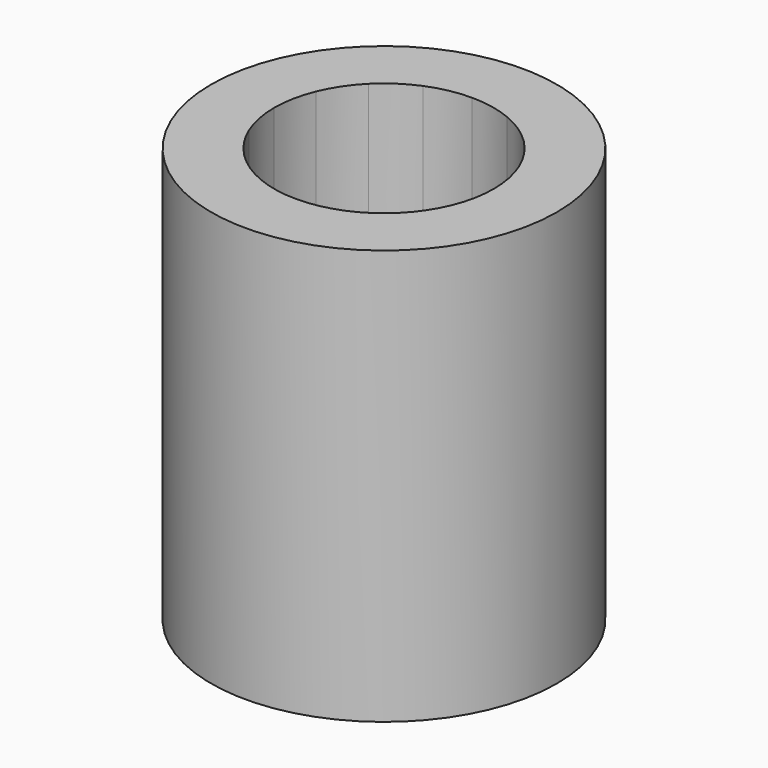
from build123d import *

# Parameters (mm, degrees)
F0_R     = 3.97
F1_DEPTH = 3
F2_DEPTH = 10
F3_DEPTH = 15
F4_DEPTH = 20
F5_START = 15
F5_DEPTH = 5
F6_DEPTH = 30
F0_R_2   = 12.5
F7_DEPTH = 30


with BuildPart() as f1:
    # F0 (on Top) → F1 (new body)
    with BuildSketch(Plane.XY):
        with BuildLine():
            ThreePointArc((5.1333056525, -2.1262848211), (5.4494882142, -1.0839706017), (5.55625, 0))
            ThreePointArc((5.55625, 0), (5.4494882142, 1.0839706017), (5.1333056525, 2.1262848211))
            ThreePointArc((5.1333056525, 2.1262848211), (4.6198530334, 3.0868871072), (3.928862053, 3.928862053))
            ThreePointArc((3.928862053, 3.928862053), (3.0868871072, 4.6198530334), (2.1262848211, 5.1333056525))
            ThreePointArc((2.1262848211, 5.1333056525), (1.0839706017, 5.4494882142), (0, 5.55625))
            ThreePointArc((0, 5.55625), (-1.0839706017, 5.4494882142), (-2.1262848211, 5.1333056525))
            ThreePointArc((-2.1262848211, 5.1333056525), (-3.0868871072, 4.6198530334), (-3.928862053, 3.928862053))
            ThreePointArc((-3.928862053, 3.928862053), (-4.6198530334, 3.0868871072), (-5.1333056525, 2.1262848211))
            ThreePointArc((-5.1333056525, 2.1262848211), (-5.4494882142, 1.0839706017), (-5.55625, 0))
            ThreePointArc((-5.55625, 0), (-5.4494882142, -1.0839706017), (-5.1333056525, -2.1262848211))
            ThreePointArc((-5.1333056525, -2.1262848211), (-4.6198530334, -3.0868871072), (-3.928862053, -3.928862053))
            ThreePointArc((-3.928862053, -3.928862053), (-3.0868871072, -4.6198530334), (-2.1262848211, -5.1333056525))
            ThreePointArc((-2.1262848211, -5.1333056525), (-1.0839706017, -5.4494882142), (0, -5.55625))
            ThreePointArc((0, -5.55625), (1.0839706017, -5.4494882142), (2.1262848211, -5.1333056525))
            ThreePointArc((2.1262848211, -5.1333056525), (3.0868871072, -4.6198530334), (3.928862053, -3.928862053))
            ThreePointArc((3.928862053, -3.928862053), (4.6198530334, -3.0868871072), (5.1333056525, -2.1262848211))
        make_face()
        Circle(F0_R, mode=Mode.SUBTRACT)
    extrude(amount=F1_DEPTH)

    # F0 (on Top) → F2 (join)
    with BuildSketch(Plane.XY):
        with BuildLine():
            Line((5.1333056525, 2.1262848211), (5.5432771951, 2.2961005942))
            ThreePointArc((5.5432771951, 2.2961005942), (4.9888176738, 3.3334213981), (4.2426406871, 4.2426406871))
            Line((4.2426406871, 4.2426406871), (3.928862053, 3.928862053))
            ThreePointArc((3.928862053, 3.928862053), (4.6198530334, 3.0868871072), (5.1333056525, 2.1262848211))
        make_face()
        with BuildLine():
            Line((5.55625, 0), (6, 0))
            ThreePointArc((6, 0), (5.8847116824, 1.1705419321), (5.5432771951, 2.2961005942))
            Line((5.5432771951, 2.2961005942), (5.1333056525, 2.1262848211))
            ThreePointArc((5.1333056525, 2.1262848211), (5.4494882142, 1.0839706017), (5.55625, 0))
        make_face()
        with BuildLine():
            ThreePointArc((5.5432771951, -2.2961005942), (5.8847116824, -1.1705419321), (6, 0))
            Line((6, 0), (5.55625, 0))
            ThreePointArc((5.55625, 0), (5.4494882142, -1.0839706017), (5.1333056525, -2.1262848211))
            Line((5.1333056525, -2.1262848211), (5.5432771951, -2.2961005942))
        make_face()
        with BuildLine():
            ThreePointArc((4.2426406871, -4.2426406871), (4.9888176738, -3.3334213981), (5.5432771951, -2.2961005942))
            Line((5.5432771951, -2.2961005942), (5.1333056525, -2.1262848211))
            ThreePointArc((5.1333056525, -2.1262848211), (4.6198530334, -3.0868871072), (3.928862053, -3.928862053))
            Line((3.928862053, -3.928862053), (4.2426406871, -4.2426406871))
        make_face()
        with BuildLine():
            ThreePointArc((2.2961005942, -5.5432771951), (3.3334213981, -4.9888176738), (4.2426406871, -4.2426406871))
            Line((4.2426406871, -4.2426406871), (3.928862053, -3.928862053))
            ThreePointArc((3.928862053, -3.928862053), (3.0868871072, -4.6198530334), (2.1262848211, -5.1333056525))
            Line((2.1262848211, -5.1333056525), (2.2961005942, -5.5432771951))
        make_face()
        with BuildLine():
            ThreePointArc((0, -6), (1.1705419321, -5.8847116824), (2.2961005942, -5.5432771951))
            Line((2.2961005942, -5.5432771951), (2.1262848211, -5.1333056525))
            ThreePointArc((2.1262848211, -5.1333056525), (1.0839706017, -5.4494882142), (0, -5.55625))
            Line((0, -5.55625), (0, -6))
        make_face()
        with BuildLine():
            ThreePointArc((-2.2961005942, -5.5432771951), (-1.1705419321, -5.8847116824), (0, -6))
            Line((0, -6), (0, -5.55625))
            ThreePointArc((0, -5.55625), (-1.0839706017, -5.4494882142), (-2.1262848211, -5.1333056525))
            Line((-2.1262848211, -5.1333056525), (-2.2961005942, -5.5432771951))
        make_face()
        with BuildLine():
            ThreePointArc((-4.2426406871, -4.2426406871), (-3.3334213981, -4.9888176738), (-2.2961005942, -5.5432771951))
            Line((-2.2961005942, -5.5432771951), (-2.1262848211, -5.1333056525))
            ThreePointArc((-2.1262848211, -5.1333056525), (-3.0868871072, -4.6198530334), (-3.928862053, -3.928862053))
            Line((-3.928862053, -3.928862053), (-4.2426406871, -4.2426406871))
        make_face()
        with BuildLine():
            ThreePointArc((-5.5432771951, -2.2961005942), (-4.9888176738, -3.3334213981), (-4.2426406871, -4.2426406871))
            Line((-4.2426406871, -4.2426406871), (-3.928862053, -3.928862053))
            ThreePointArc((-3.928862053, -3.928862053), (-4.6198530334, -3.0868871072), (-5.1333056525, -2.1262848211))
            Line((-5.1333056525, -2.1262848211), (-5.5432771951, -2.2961005942))
        make_face()
        with BuildLine():
            ThreePointArc((-6, 0), (-5.8847116824, -1.1705419321), (-5.5432771951, -2.2961005942))
            Line((-5.5432771951, -2.2961005942), (-5.1333056525, -2.1262848211))
            ThreePointArc((-5.1333056525, -2.1262848211), (-5.4494882142, -1.0839706017), (-5.55625, 0))
            Line((-5.55625, 0), (-6, 0))
        make_face()
        with BuildLine():
            Line((3.928862053, 3.928862053), (4.2426406871, 4.2426406871))
            ThreePointArc((4.2426406871, 4.2426406871), (3.3334213981, 4.9888176738), (2.2961005942, 5.5432771951))
            Line((2.2961005942, 5.5432771951), (2.1262848211, 5.1333056525))
            ThreePointArc((2.1262848211, 5.1333056525), (3.0868871072, 4.6198530334), (3.928862053, 3.928862053))
        make_face()
        with BuildLine():
            Line((2.1262848211, 5.1333056525), (2.2961005942, 5.5432771951))
            ThreePointArc((2.2961005942, 5.5432771951), (1.1705419321, 5.8847116824), (0, 6))
            Line((0, 6), (0, 5.55625))
            ThreePointArc((0, 5.55625), (1.0839706017, 5.4494882142), (2.1262848211, 5.1333056525))
        make_face()
        with BuildLine():
            Line((0, 5.55625), (0, 6))
            ThreePointArc((0, 6), (-1.1705419321, 5.8847116824), (-2.2961005942, 5.5432771951))
            Line((-2.2961005942, 5.5432771951), (-2.1262848211, 5.1333056525))
            ThreePointArc((-2.1262848211, 5.1333056525), (-1.0839706017, 5.4494882142), (0, 5.55625))
        make_face()
        with BuildLine():
            Line((-2.1262848211, 5.1333056525), (-2.2961005942, 5.5432771951))
            ThreePointArc((-2.2961005942, 5.5432771951), (-3.3334213981, 4.9888176738), (-4.2426406871, 4.2426406871))
            Line((-4.2426406871, 4.2426406871), (-3.928862053, 3.928862053))
            ThreePointArc((-3.928862053, 3.928862053), (-3.0868871072, 4.6198530334), (-2.1262848211, 5.1333056525))
        make_face()
        with BuildLine():
            Line((-3.928862053, 3.928862053), (-4.2426406871, 4.2426406871))
            ThreePointArc((-4.2426406871, 4.2426406871), (-4.9888176738, 3.3334213981), (-5.5432771951, 2.2961005942))
            Line((-5.5432771951, 2.2961005942), (-5.1333056525, 2.1262848211))
            ThreePointArc((-5.1333056525, 2.1262848211), (-4.6198530334, 3.0868871072), (-3.928862053, 3.928862053))
        make_face()
        with BuildLine():
            Line((-5.1333056525, 2.1262848211), (-5.5432771951, 2.2961005942))
            ThreePointArc((-5.5432771951, 2.2961005942), (-5.8847116824, 1.1705419321), (-6, 0))
            Line((-6, 0), (-5.55625, 0))
            ThreePointArc((-5.55625, 0), (-5.4494882142, 1.0839706017), (-5.1333056525, 2.1262848211))
        make_face()
        with BuildLine():
            Line((0, 6), (0, 6.35))
            ThreePointArc((0, 6.35), (-1.2388235448, 6.2279865306), (-2.4300397955, 5.8666350314))
            Line((-2.4300397955, 5.8666350314), (-2.2961005942, 5.5432771951))
            ThreePointArc((-2.2961005942, 5.5432771951), (-1.1705419321, 5.8847116824), (0, 6))
        make_face()
        with BuildLine():
            Line((-2.2961005942, 5.5432771951), (-2.4300397955, 5.8666350314))
            ThreePointArc((-2.4300397955, 5.8666350314), (-3.5278709797, 5.2798320381), (-4.4901280605, 4.4901280605))
            Line((-4.4901280605, 4.4901280605), (-4.2426406871, 4.2426406871))
            ThreePointArc((-4.2426406871, 4.2426406871), (-3.3334213981, 4.9888176738), (-2.2961005942, 5.5432771951))
        make_face()
        with BuildLine():
            Line((-4.2426406871, 4.2426406871), (-4.4901280605, 4.4901280605))
            ThreePointArc((-4.4901280605, 4.4901280605), (-5.2798320381, 3.5278709797), (-5.8666350314, 2.4300397955))
            Line((-5.8666350314, 2.4300397955), (-5.5432771951, 2.2961005942))
            ThreePointArc((-5.5432771951, 2.2961005942), (-4.9888176738, 3.3334213981), (-4.2426406871, 4.2426406871))
        make_face()
        with BuildLine():
            Line((2.2961005942, 5.5432771951), (2.4300397955, 5.8666350314))
            ThreePointArc((2.4300397955, 5.8666350314), (1.2388235448, 6.2279865306), (0, 6.35))
            Line((0, 6.35), (0, 6))
            ThreePointArc((0, 6), (1.1705419321, 5.8847116824), (2.2961005942, 5.5432771951))
        make_face()
        with BuildLine():
            Line((4.2426406871, 4.2426406871), (4.4901280605, 4.4901280605))
            ThreePointArc((4.4901280605, 4.4901280605), (3.5278709797, 5.2798320381), (2.4300397955, 5.8666350314))
            Line((2.4300397955, 5.8666350314), (2.2961005942, 5.5432771951))
            ThreePointArc((2.2961005942, 5.5432771951), (3.3334213981, 4.9888176738), (4.2426406871, 4.2426406871))
        make_face()
        with BuildLine():
            Line((5.5432771951, 2.2961005942), (5.8666350314, 2.4300397955))
            ThreePointArc((5.8666350314, 2.4300397955), (5.2798320381, 3.5278709797), (4.4901280605, 4.4901280605))
            Line((4.4901280605, 4.4901280605), (4.2426406871, 4.2426406871))
            ThreePointArc((4.2426406871, 4.2426406871), (4.9888176738, 3.3334213981), (5.5432771951, 2.2961005942))
        make_face()
        with BuildLine():
            Line((6, 0), (6.35, 0))
            ThreePointArc((6.35, 0), (6.2279865306, 1.2388235448), (5.8666350314, 2.4300397955))
            Line((5.8666350314, 2.4300397955), (5.5432771951, 2.2961005942))
            ThreePointArc((5.5432771951, 2.2961005942), (5.8847116824, 1.1705419321), (6, 0))
        make_face()
        with BuildLine():
            ThreePointArc((5.8666350314, -2.4300397955), (6.2279865306, -1.2388235448), (6.35, 0))
            Line((6.35, 0), (6, 0))
            ThreePointArc((6, 0), (5.8847116824, -1.1705419321), (5.5432771951, -2.2961005942))
            Line((5.5432771951, -2.2961005942), (5.8666350314, -2.4300397955))
        make_face()
        with BuildLine():
            ThreePointArc((4.4901280605, -4.4901280605), (5.2798320381, -3.5278709797), (5.8666350314, -2.4300397955))
            Line((5.8666350314, -2.4300397955), (5.5432771951, -2.2961005942))
            ThreePointArc((5.5432771951, -2.2961005942), (4.9888176738, -3.3334213981), (4.2426406871, -4.2426406871))
            Line((4.2426406871, -4.2426406871), (4.4901280605, -4.4901280605))
        make_face()
        with BuildLine():
            ThreePointArc((2.4300397955, -5.8666350314), (3.5278709797, -5.2798320381), (4.4901280605, -4.4901280605))
            Line((4.4901280605, -4.4901280605), (4.2426406871, -4.2426406871))
            ThreePointArc((4.2426406871, -4.2426406871), (3.3334213981, -4.9888176738), (2.2961005942, -5.5432771951))
            Line((2.2961005942, -5.5432771951), (2.4300397955, -5.8666350314))
        make_face()
        with BuildLine():
            ThreePointArc((0, -6.35), (1.2388235448, -6.2279865306), (2.4300397955, -5.8666350314))
            Line((2.4300397955, -5.8666350314), (2.2961005942, -5.5432771951))
            ThreePointArc((2.2961005942, -5.5432771951), (1.1705419321, -5.8847116824), (0, -6))
            Line((0, -6), (0, -6.35))
        make_face()
        with BuildLine():
            ThreePointArc((-2.4300397955, -5.8666350314), (-1.2388235448, -6.2279865306), (0, -6.35))
            Line((0, -6.35), (0, -6))
            ThreePointArc((0, -6), (-1.1705419321, -5.8847116824), (-2.2961005942, -5.5432771951))
            Line((-2.2961005942, -5.5432771951), (-2.4300397955, -5.8666350314))
        make_face()
        with BuildLine():
            ThreePointArc((-4.4901280605, -4.4901280605), (-3.5278709797, -5.2798320381), (-2.4300397955, -5.8666350314))
            Line((-2.4300397955, -5.8666350314), (-2.2961005942, -5.5432771951))
            ThreePointArc((-2.2961005942, -5.5432771951), (-3.3334213981, -4.9888176738), (-4.2426406871, -4.2426406871))
            Line((-4.2426406871, -4.2426406871), (-4.4901280605, -4.4901280605))
        make_face()
        with BuildLine():
            ThreePointArc((-5.8666350314, -2.4300397955), (-5.2798320381, -3.5278709797), (-4.4901280605, -4.4901280605))
            Line((-4.4901280605, -4.4901280605), (-4.2426406871, -4.2426406871))
            ThreePointArc((-4.2426406871, -4.2426406871), (-4.9888176738, -3.3334213981), (-5.5432771951, -2.2961005942))
            Line((-5.5432771951, -2.2961005942), (-5.8666350314, -2.4300397955))
        make_face()
        with BuildLine():
            ThreePointArc((-6.35, 0), (-6.2279865306, -1.2388235448), (-5.8666350314, -2.4300397955))
            Line((-5.8666350314, -2.4300397955), (-5.5432771951, -2.2961005942))
            ThreePointArc((-5.5432771951, -2.2961005942), (-5.8847116824, -1.1705419321), (-6, 0))
            Line((-6, 0), (-6.35, 0))
        make_face()
        with BuildLine():
            Line((-5.5432771951, 2.2961005942), (-5.8666350314, 2.4300397955))
            ThreePointArc((-5.8666350314, 2.4300397955), (-6.2279865306, 1.2388235448), (-6.35, 0))
            Line((-6.35, 0), (-6, 0))
            ThreePointArc((-6, 0), (-5.8847116824, 1.1705419321), (-5.5432771951, 2.2961005942))
        make_face()
    extrude(amount=F2_DEPTH)

    # F0 (on Top) → F3 (join)
    with BuildSketch(Plane.XY):
        with BuildLine():
            Line((2.2961005942, 5.5432771951), (2.4300397955, 5.8666350314))
            ThreePointArc((2.4300397955, 5.8666350314), (1.2388235448, 6.2279865306), (0, 6.35))
            Line((0, 6.35), (0, 6))
            ThreePointArc((0, 6), (1.1705419321, 5.8847116824), (2.2961005942, 5.5432771951))
        make_face()
        with BuildLine():
            Line((5.5432771951, 2.2961005942), (5.8666350314, 2.4300397955))
            ThreePointArc((5.8666350314, 2.4300397955), (5.2798320381, 3.5278709797), (4.4901280605, 4.4901280605))
            Line((4.4901280605, 4.4901280605), (4.2426406871, 4.2426406871))
            ThreePointArc((4.2426406871, 4.2426406871), (4.9888176738, 3.3334213981), (5.5432771951, 2.2961005942))
        make_face()
        with BuildLine():
            ThreePointArc((5.8666350314, -2.4300397955), (6.2279865306, -1.2388235448), (6.35, 0))
            Line((6.35, 0), (6, 0))
            ThreePointArc((6, 0), (5.8847116824, -1.1705419321), (5.5432771951, -2.2961005942))
            Line((5.5432771951, -2.2961005942), (5.8666350314, -2.4300397955))
        make_face()
        with BuildLine():
            ThreePointArc((2.4300397955, -5.8666350314), (3.5278709797, -5.2798320381), (4.4901280605, -4.4901280605))
            Line((4.4901280605, -4.4901280605), (4.2426406871, -4.2426406871))
            ThreePointArc((4.2426406871, -4.2426406871), (3.3334213981, -4.9888176738), (2.2961005942, -5.5432771951))
            Line((2.2961005942, -5.5432771951), (2.4300397955, -5.8666350314))
        make_face()
        with BuildLine():
            ThreePointArc((-2.4300397955, -5.8666350314), (-1.2388235448, -6.2279865306), (0, -6.35))
            Line((0, -6.35), (0, -6))
            ThreePointArc((0, -6), (-1.1705419321, -5.8847116824), (-2.2961005942, -5.5432771951))
            Line((-2.2961005942, -5.5432771951), (-2.4300397955, -5.8666350314))
        make_face()
        with BuildLine():
            ThreePointArc((-5.8666350314, -2.4300397955), (-5.2798320381, -3.5278709797), (-4.4901280605, -4.4901280605))
            Line((-4.4901280605, -4.4901280605), (-4.2426406871, -4.2426406871))
            ThreePointArc((-4.2426406871, -4.2426406871), (-4.9888176738, -3.3334213981), (-5.5432771951, -2.2961005942))
            Line((-5.5432771951, -2.2961005942), (-5.8666350314, -2.4300397955))
        make_face()
        with BuildLine():
            Line((-5.5432771951, 2.2961005942), (-5.8666350314, 2.4300397955))
            ThreePointArc((-5.8666350314, 2.4300397955), (-6.2279865306, 1.2388235448), (-6.35, 0))
            Line((-6.35, 0), (-6, 0))
            ThreePointArc((-6, 0), (-5.8847116824, 1.1705419321), (-5.5432771951, 2.2961005942))
        make_face()
        with BuildLine():
            Line((-2.2961005942, 5.5432771951), (-2.4300397955, 5.8666350314))
            ThreePointArc((-2.4300397955, 5.8666350314), (-3.5278709797, 5.2798320381), (-4.4901280605, 4.4901280605))
            Line((-4.4901280605, 4.4901280605), (-4.2426406871, 4.2426406871))
            ThreePointArc((-4.2426406871, 4.2426406871), (-3.3334213981, 4.9888176738), (-2.2961005942, 5.5432771951))
        make_face()
    extrude(amount=F3_DEPTH)

    # F0 (on Top) → F4 (join)
    with BuildSketch(Plane.XY):
        with BuildLine():
            Line((2.4300397955, 5.8666350314), (3.0375497444, 7.3332937893))
            ThreePointArc((3.0375497444, 7.3332937893), (1.548529431, 7.7849831632), (0, 7.9375))
            Line((0, 7.9375), (0, 6.35))
            ThreePointArc((0, 6.35), (1.2388235448, 6.2279865306), (2.4300397955, 5.8666350314))
        make_face()
        with BuildLine():
            Line((5.8666350314, 2.4300397955), (7.3332937893, 3.0375497444))
            ThreePointArc((7.3332937893, 3.0375497444), (6.5997900477, 4.4098387246), (5.6126600757, 5.6126600757))
            Line((5.6126600757, 5.6126600757), (4.4901280605, 4.4901280605))
            ThreePointArc((4.4901280605, 4.4901280605), (5.2798320381, 3.5278709797), (5.8666350314, 2.4300397955))
        make_face()
        with BuildLine():
            ThreePointArc((7.3332937893, -3.0375497444), (7.7849831632, -1.548529431), (7.9375, 0))
            Line((7.9375, 0), (6.35, 0))
            ThreePointArc((6.35, 0), (6.2279865306, -1.2388235448), (5.8666350314, -2.4300397955))
            Line((5.8666350314, -2.4300397955), (7.3332937893, -3.0375497444))
        make_face()
        with BuildLine():
            ThreePointArc((3.0375497444, -7.3332937893), (4.4098387246, -6.5997900477), (5.6126600757, -5.6126600757))
            Line((5.6126600757, -5.6126600757), (4.4901280605, -4.4901280605))
            ThreePointArc((4.4901280605, -4.4901280605), (3.5278709797, -5.2798320381), (2.4300397955, -5.8666350314))
            Line((2.4300397955, -5.8666350314), (3.0375497444, -7.3332937893))
        make_face()
        with BuildLine():
            ThreePointArc((-3.0375497444, -7.3332937893), (-1.548529431, -7.7849831632), (0, -7.9375))
            Line((0, -7.9375), (0, -6.35))
            ThreePointArc((0, -6.35), (-1.2388235448, -6.2279865306), (-2.4300397955, -5.8666350314))
            Line((-2.4300397955, -5.8666350314), (-3.0375497444, -7.3332937893))
        make_face()
        with BuildLine():
            ThreePointArc((-7.3332937893, -3.0375497444), (-6.5997900477, -4.4098387246), (-5.6126600757, -5.6126600757))
            Line((-5.6126600757, -5.6126600757), (-4.4901280605, -4.4901280605))
            ThreePointArc((-4.4901280605, -4.4901280605), (-5.2798320381, -3.5278709797), (-5.8666350314, -2.4300397955))
            Line((-5.8666350314, -2.4300397955), (-7.3332937893, -3.0375497444))
        make_face()
        with BuildLine():
            Line((-5.8666350314, 2.4300397955), (-7.3332937893, 3.0375497444))
            ThreePointArc((-7.3332937893, 3.0375497444), (-7.7849831632, 1.548529431), (-7.9375, 0))
            Line((-7.9375, 0), (-6.35, 0))
            ThreePointArc((-6.35, 0), (-6.2279865306, 1.2388235448), (-5.8666350314, 2.4300397955))
        make_face()
        with BuildLine():
            Line((-2.4300397955, 5.8666350314), (-3.0375497444, 7.3332937893))
            ThreePointArc((-3.0375497444, 7.3332937893), (-4.4098387246, 6.5997900477), (-5.6126600757, 5.6126600757))
            Line((-5.6126600757, 5.6126600757), (-4.4901280605, 4.4901280605))
            ThreePointArc((-4.4901280605, 4.4901280605), (-3.5278709797, 5.2798320381), (-2.4300397955, 5.8666350314))
        make_face()
    extrude(amount=F4_DEPTH)

    # F0 (on Top) → F5 (join)
    with BuildSketch(Plane.XY.offset(F5_START)):
        with BuildLine():
            Line((4.4901280605, 4.4901280605), (5.6126600757, 5.6126600757))
            ThreePointArc((5.6126600757, 5.6126600757), (4.4098387246, 6.5997900477), (3.0375497444, 7.3332937893))
            Line((3.0375497444, 7.3332937893), (2.4300397955, 5.8666350314))
            ThreePointArc((2.4300397955, 5.8666350314), (3.5278709797, 5.2798320381), (4.4901280605, 4.4901280605))
        make_face()
        with BuildLine():
            Line((6.35, 0), (7.9375, 0))
            ThreePointArc((7.9375, 0), (7.7849831632, 1.548529431), (7.3332937893, 3.0375497444))
            Line((7.3332937893, 3.0375497444), (5.8666350314, 2.4300397955))
            ThreePointArc((5.8666350314, 2.4300397955), (6.2279865306, 1.2388235448), (6.35, 0))
        make_face()
        with BuildLine():
            ThreePointArc((5.6126600757, -5.6126600757), (6.5997900477, -4.4098387246), (7.3332937893, -3.0375497444))
            Line((7.3332937893, -3.0375497444), (5.8666350314, -2.4300397955))
            ThreePointArc((5.8666350314, -2.4300397955), (5.2798320381, -3.5278709797), (4.4901280605, -4.4901280605))
            Line((4.4901280605, -4.4901280605), (5.6126600757, -5.6126600757))
        make_face()
        with BuildLine():
            ThreePointArc((0, -7.9375), (1.548529431, -7.7849831632), (3.0375497444, -7.3332937893))
            Line((3.0375497444, -7.3332937893), (2.4300397955, -5.8666350314))
            ThreePointArc((2.4300397955, -5.8666350314), (1.2388235448, -6.2279865306), (0, -6.35))
            Line((0, -6.35), (0, -7.9375))
        make_face()
        with BuildLine():
            ThreePointArc((-5.6126600757, -5.6126600757), (-4.4098387246, -6.5997900477), (-3.0375497444, -7.3332937893))
            Line((-3.0375497444, -7.3332937893), (-2.4300397955, -5.8666350314))
            ThreePointArc((-2.4300397955, -5.8666350314), (-3.5278709797, -5.2798320381), (-4.4901280605, -4.4901280605))
            Line((-4.4901280605, -4.4901280605), (-5.6126600757, -5.6126600757))
        make_face()
        with BuildLine():
            ThreePointArc((-7.9375, 0), (-7.7849831632, -1.548529431), (-7.3332937893, -3.0375497444))
            Line((-7.3332937893, -3.0375497444), (-5.8666350314, -2.4300397955))
            ThreePointArc((-5.8666350314, -2.4300397955), (-6.2279865306, -1.2388235448), (-6.35, 0))
            Line((-6.35, 0), (-7.9375, 0))
        make_face()
        with BuildLine():
            Line((-4.4901280605, 4.4901280605), (-5.6126600757, 5.6126600757))
            ThreePointArc((-5.6126600757, 5.6126600757), (-6.5997900477, 4.4098387246), (-7.3332937893, 3.0375497444))
            Line((-7.3332937893, 3.0375497444), (-5.8666350314, 2.4300397955))
            ThreePointArc((-5.8666350314, 2.4300397955), (-5.2798320381, 3.5278709797), (-4.4901280605, 4.4901280605))
        make_face()
        with BuildLine():
            Line((0, 6.35), (0, 7.9375))
            ThreePointArc((0, 7.9375), (-1.548529431, 7.7849831632), (-3.0375497444, 7.3332937893))
            Line((-3.0375497444, 7.3332937893), (-2.4300397955, 5.8666350314))
            ThreePointArc((-2.4300397955, 5.8666350314), (-1.2388235448, 6.2279865306), (0, 6.35))
        make_face()
    extrude(amount=F5_DEPTH)

    # F0 (on Top) → F6 (join)
    with BuildSketch(Plane.XY):
        with BuildLine():
            ThreePointArc((0, 7.9375), (1.548529431, 7.7849831632), (3.0375497444, 7.3332937893))
            Line((3.0375497444, 7.3332937893), (3.2528091751, 7.8529760263))
            ThreePointArc((3.2528091751, 7.8529760263), (1.6582677371, 8.3366748834), (0, 8.5))
            Line((0, 8.5), (0, 7.9375))
        make_face()
        with BuildLine():
            ThreePointArc((3.0375497444, 7.3332937893), (4.4098387246, 6.5997900477), (5.6126600757, 5.6126600757))
            Line((5.6126600757, 5.6126600757), (6.0104076401, 6.0104076401))
            ThreePointArc((6.0104076401, 6.0104076401), (4.7223469807, 7.0674917046), (3.2528091751, 7.8529760263))
            Line((3.2528091751, 7.8529760263), (3.0375497444, 7.3332937893))
        make_face()
        with BuildLine():
            ThreePointArc((5.6126600757, 5.6126600757), (6.5997900477, 4.4098387246), (7.3332937893, 3.0375497444))
            Line((7.3332937893, 3.0375497444), (7.8529760263, 3.2528091751))
            ThreePointArc((7.8529760263, 3.2528091751), (7.0674917046, 4.7223469807), (6.0104076401, 6.0104076401))
            Line((6.0104076401, 6.0104076401), (5.6126600757, 5.6126600757))
        make_face()
        with BuildLine():
            ThreePointArc((7.3332937893, 3.0375497444), (7.7849831632, 1.548529431), (7.9375, 0))
            Line((7.9375, 0), (8.5, 0))
            ThreePointArc((8.5, 0), (8.3366748834, 1.6582677371), (7.8529760263, 3.2528091751))
            Line((7.8529760263, 3.2528091751), (7.3332937893, 3.0375497444))
        make_face()
        with BuildLine():
            Line((8.5, 0), (7.9375, 0))
            ThreePointArc((7.9375, 0), (7.7849831632, -1.548529431), (7.3332937893, -3.0375497444))
            Line((7.3332937893, -3.0375497444), (7.8529760263, -3.2528091751))
            ThreePointArc((7.8529760263, -3.2528091751), (8.3366748834, -1.6582677371), (8.5, 0))
        make_face()
        with BuildLine():
            Line((7.8529760263, -3.2528091751), (7.3332937893, -3.0375497444))
            ThreePointArc((7.3332937893, -3.0375497444), (6.5997900477, -4.4098387246), (5.6126600757, -5.6126600757))
            Line((5.6126600757, -5.6126600757), (6.0104076401, -6.0104076401))
            ThreePointArc((6.0104076401, -6.0104076401), (7.0674917046, -4.7223469807), (7.8529760263, -3.2528091751))
        make_face()
        with BuildLine():
            Line((6.0104076401, -6.0104076401), (5.6126600757, -5.6126600757))
            ThreePointArc((5.6126600757, -5.6126600757), (4.4098387246, -6.5997900477), (3.0375497444, -7.3332937893))
            Line((3.0375497444, -7.3332937893), (3.2528091751, -7.8529760263))
            ThreePointArc((3.2528091751, -7.8529760263), (4.7223469807, -7.0674917046), (6.0104076401, -6.0104076401))
        make_face()
        with BuildLine():
            Line((3.2528091751, -7.8529760263), (3.0375497444, -7.3332937893))
            ThreePointArc((3.0375497444, -7.3332937893), (1.548529431, -7.7849831632), (0, -7.9375))
            Line((0, -7.9375), (0, -8.5))
            ThreePointArc((0, -8.5), (1.6582677371, -8.3366748834), (3.2528091751, -7.8529760263))
        make_face()
        with BuildLine():
            Line((0, -8.5), (0, -7.9375))
            ThreePointArc((0, -7.9375), (-1.548529431, -7.7849831632), (-3.0375497444, -7.3332937893))
            Line((-3.0375497444, -7.3332937893), (-3.2528091751, -7.8529760263))
            ThreePointArc((-3.2528091751, -7.8529760263), (-1.6582677371, -8.3366748834), (0, -8.5))
        make_face()
        with BuildLine():
            Line((-3.2528091751, -7.8529760263), (-3.0375497444, -7.3332937893))
            ThreePointArc((-3.0375497444, -7.3332937893), (-4.4098387246, -6.5997900477), (-5.6126600757, -5.6126600757))
            Line((-5.6126600757, -5.6126600757), (-6.0104076401, -6.0104076401))
            ThreePointArc((-6.0104076401, -6.0104076401), (-4.7223469807, -7.0674917046), (-3.2528091751, -7.8529760263))
        make_face()
        with BuildLine():
            Line((-6.0104076401, -6.0104076401), (-5.6126600757, -5.6126600757))
            ThreePointArc((-5.6126600757, -5.6126600757), (-6.5997900477, -4.4098387246), (-7.3332937893, -3.0375497444))
            Line((-7.3332937893, -3.0375497444), (-7.8529760263, -3.2528091751))
            ThreePointArc((-7.8529760263, -3.2528091751), (-7.0674917046, -4.7223469807), (-6.0104076401, -6.0104076401))
        make_face()
        with BuildLine():
            Line((-7.8529760263, -3.2528091751), (-7.3332937893, -3.0375497444))
            ThreePointArc((-7.3332937893, -3.0375497444), (-7.7849831632, -1.548529431), (-7.9375, 0))
            Line((-7.9375, 0), (-8.5, 0))
            ThreePointArc((-8.5, 0), (-8.3366748834, -1.6582677371), (-7.8529760263, -3.2528091751))
        make_face()
        with BuildLine():
            ThreePointArc((-7.9375, 0), (-7.7849831632, 1.548529431), (-7.3332937893, 3.0375497444))
            Line((-7.3332937893, 3.0375497444), (-7.8529760263, 3.2528091751))
            ThreePointArc((-7.8529760263, 3.2528091751), (-8.3366748834, 1.6582677371), (-8.5, 0))
            Line((-8.5, 0), (-7.9375, 0))
        make_face()
        with BuildLine():
            ThreePointArc((-7.3332937893, 3.0375497444), (-6.5997900477, 4.4098387246), (-5.6126600757, 5.6126600757))
            Line((-5.6126600757, 5.6126600757), (-6.0104076401, 6.0104076401))
            ThreePointArc((-6.0104076401, 6.0104076401), (-7.0674917046, 4.7223469807), (-7.8529760263, 3.2528091751))
            Line((-7.8529760263, 3.2528091751), (-7.3332937893, 3.0375497444))
        make_face()
        with BuildLine():
            ThreePointArc((-5.6126600757, 5.6126600757), (-4.4098387246, 6.5997900477), (-3.0375497444, 7.3332937893))
            Line((-3.0375497444, 7.3332937893), (-3.2528091751, 7.8529760263))
            ThreePointArc((-3.2528091751, 7.8529760263), (-4.7223469807, 7.0674917046), (-6.0104076401, 6.0104076401))
            Line((-6.0104076401, 6.0104076401), (-5.6126600757, 5.6126600757))
        make_face()
        with BuildLine():
            ThreePointArc((-3.0375497444, 7.3332937893), (-1.548529431, 7.7849831632), (0, 7.9375))
            Line((0, 7.9375), (0, 8.5))
            ThreePointArc((0, 8.5), (-1.6582677371, 8.3366748834), (-3.2528091751, 7.8529760263))
            Line((-3.2528091751, 7.8529760263), (-3.0375497444, 7.3332937893))
        make_face()
    extrude(amount=F6_DEPTH)

    # F0 (on Top) → F7 (join)
    with BuildSketch(Plane.XY):
        Circle(F0_R_2)
        with BuildLine():
            ThreePointArc((7.8529760263, 3.2528091751), (8.3366748834, 1.6582677371), (8.5, 0))
            ThreePointArc((8.5, 0), (8.3366748834, -1.6582677371), (7.8529760263, -3.2528091751))
            ThreePointArc((7.8529760263, -3.2528091751), (7.0674917046, -4.7223469807), (6.0104076401, -6.0104076401))
            ThreePointArc((6.0104076401, -6.0104076401), (4.7223469807, -7.0674917046), (3.2528091751, -7.8529760263))
            ThreePointArc((3.2528091751, -7.8529760263), (1.6582677371, -8.3366748834), (0, -8.5))
            ThreePointArc((0, -8.5), (-1.6582677371, -8.3366748834), (-3.2528091751, -7.8529760263))
            ThreePointArc((-3.2528091751, -7.8529760263), (-4.7223469807, -7.0674917046), (-6.0104076401, -6.0104076401))
            ThreePointArc((-6.0104076401, -6.0104076401), (-7.0674917046, -4.7223469807), (-7.8529760263, -3.2528091751))
            ThreePointArc((-7.8529760263, -3.2528091751), (-8.3366748834, -1.6582677371), (-8.5, 0))
            ThreePointArc((-8.5, 0), (-8.3366748834, 1.6582677371), (-7.8529760263, 3.2528091751))
            ThreePointArc((-7.8529760263, 3.2528091751), (-7.0674917046, 4.7223469807), (-6.0104076401, 6.0104076401))
            ThreePointArc((-6.0104076401, 6.0104076401), (-4.7223469807, 7.0674917046), (-3.2528091751, 7.8529760263))
            ThreePointArc((-3.2528091751, 7.8529760263), (-1.6582677371, 8.3366748834), (0, 8.5))
            ThreePointArc((0, 8.5), (1.6582677371, 8.3366748834), (3.2528091751, 7.8529760263))
            ThreePointArc((3.2528091751, 7.8529760263), (4.7223469807, 7.0674917046), (6.0104076401, 6.0104076401))
            ThreePointArc((6.0104076401, 6.0104076401), (7.0674917046, 4.7223469807), (7.8529760263, 3.2528091751))
        make_face(mode=Mode.SUBTRACT)
    extrude(amount=F7_DEPTH)


solid = f1.part
